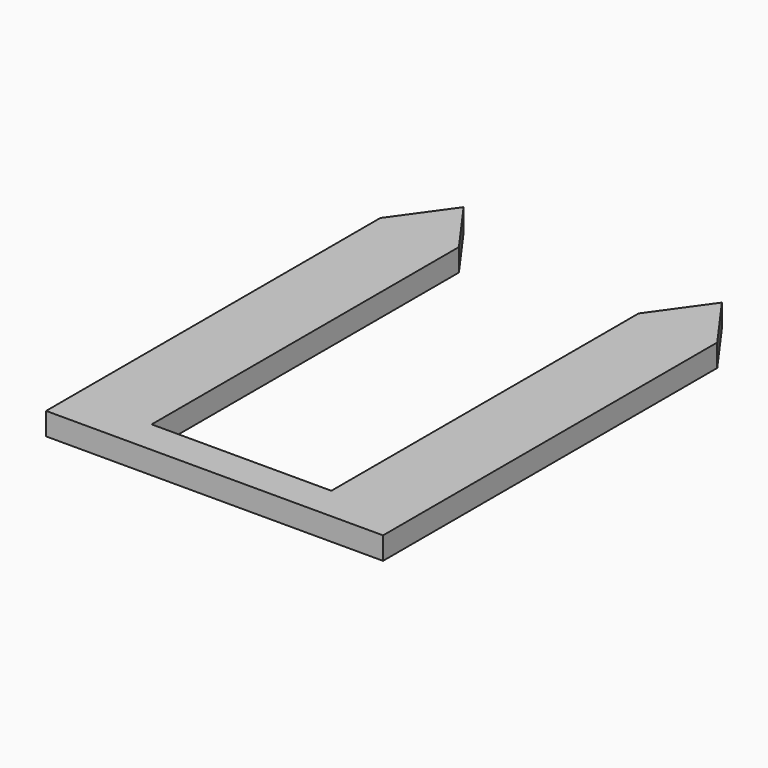
from build123d import *

# Parameters (mm, degrees)
F1_DEPTH = 2.54


with BuildPart() as f1:
    # F0 (on Top) → F1 (new body)
    with BuildSketch(Plane.XY):
        Polygon((19.05, -1.905), (19.05, 1.905), (10.16, 1.905), (-10.16, 1.905), (-19.05, 1.905), (-19.05, -1.905), align=None)
        Polygon((10.16, 1.905), (19.05, 1.905), (19.05, 45.329578), (14.605, 45.329578), (10.16, 45.329578), align=None)
        Polygon((14.605, 45.329578), (19.05, 45.329578), (14.605, 51.549435), align=None)
        Polygon((-19.05, 1.905), (-10.16, 1.905), (-10.16, 45.329578), (-14.605, 45.329578), (-19.05, 45.329578), align=None)
        Polygon((14.605, 51.549435), (10.16, 45.329578), (14.605, 45.329578), align=None)
        Polygon((-14.605, 45.329578), (-10.16, 45.329578), (-14.605, 51.549435), align=None)
        Polygon((-14.605, 51.549435), (-19.05, 45.329578), (-14.605, 45.329578), align=None)
    extrude(amount=F1_DEPTH)


solid = f1.part
